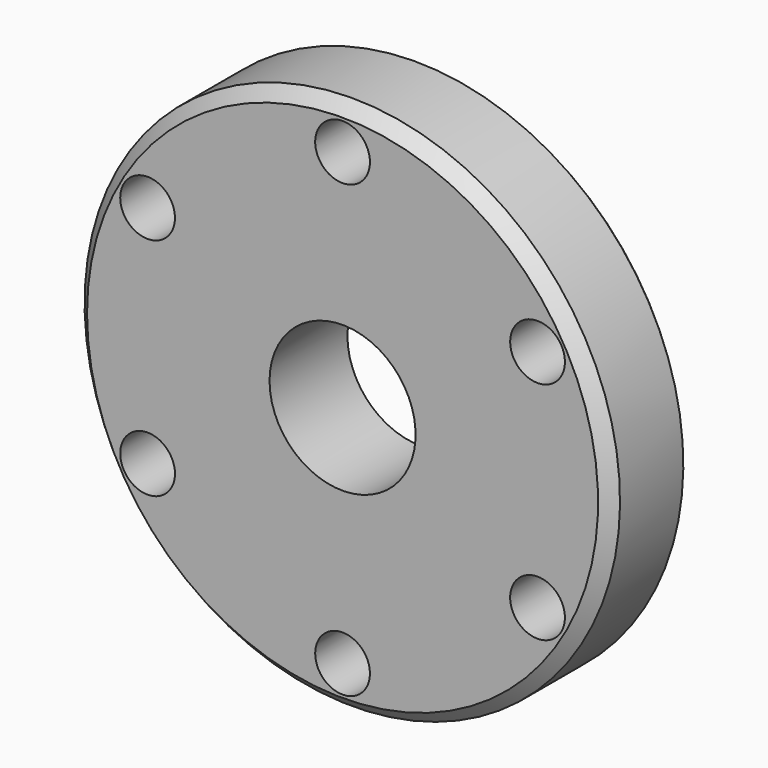
from build123d import *

# Parameters (mm, degrees)
SKETCH044_R            = 3.571875
PAD044_DEPTH           = 13
SKETCH043_R            = 34.925
SKETCH043_R_2          = 9.525
PAD043_DEPTH           = 12.7
CUT034_PLACEMENT_ANGLE = 60
CUT035_PLACEMENT_ANGLE = 60
CUT036_PLACEMENT_ANGLE = 60
CUT037_PLACEMENT_ANGLE = 60
CUT038_PLACEMENT_ANGLE = 60
CHAMFER_SIZE           = 1.59
CHAMFER001_SIZE        = 0.79


with BuildPart() as body044:
    # Sketch044 → Pad044 (new body)
    with BuildSketch(Plane.XZ):
        with Locations((0, 29.36875)):
            Circle(SKETCH044_R)
    extrude(amount=PAD044_DEPTH)


with BuildPart() as chamfer001:
    # Sketch043 → Pad043 (new body)
    with BuildSketch(Plane.XZ):
        Circle(SKETCH043_R)
        Circle(SKETCH043_R_2, mode=Mode.SUBTRACT)
    extrude(amount=PAD043_DEPTH)

    # Cut034: cut Body044
    add(body044.part, mode=Mode.SUBTRACT)


with BuildPart() as chamfer001_1:
    # Cut034 placement: moved
    add(chamfer001.part.rotate(Axis((0, 0, 0), (0, 1, 0)), CUT034_PLACEMENT_ANGLE))

    # Cut035: cut Body044
    add(body044.part, mode=Mode.SUBTRACT)


with BuildPart() as chamfer001_2:
    # Cut035 placement: moved
    add(chamfer001_1.part.rotate(Axis((0, 0, 0), (0, 1, 0)), CUT035_PLACEMENT_ANGLE))

    # Cut036: cut Body044
    add(body044.part, mode=Mode.SUBTRACT)


with BuildPart() as chamfer001_3:
    # Cut036 placement: moved
    add(chamfer001_2.part.rotate(Axis((0, 0, 0), (0, 1, 0)), CUT036_PLACEMENT_ANGLE))

    # Cut037: cut Body044
    add(body044.part, mode=Mode.SUBTRACT)


with BuildPart() as chamfer001_4:
    # Cut037 placement: moved
    add(chamfer001_3.part.rotate(Axis((0, 0, 0), (0, 1, 0)), CUT037_PLACEMENT_ANGLE))

    # Cut038: cut Body044
    add(body044.part, mode=Mode.SUBTRACT)


with BuildPart() as chamfer001_5:
    # Cut038 placement: moved
    add(chamfer001_4.part.rotate(Axis((0, 0, 0), (0, 1, 0)), CUT038_PLACEMENT_ANGLE))

    # Cut039: cut Body044
    add(body044.part, mode=Mode.SUBTRACT)

    # Chamfer
    chamfer_edges = [chamfer001_5.edges().sort_by_distance(p)[0] for p in [
        (-17.4625, -12.7, -30.245937),
    ]]
    chamfer(chamfer_edges, length=CHAMFER_SIZE)

    # Chamfer001
    chamfer001_edges = [chamfer001_5.edges().sort_by_distance(p)[0] for p in [
        (-17.4625, 0, -30.245937),
    ]]
    chamfer(chamfer001_edges, length=CHAMFER001_SIZE)


solid = chamfer001_5.part
